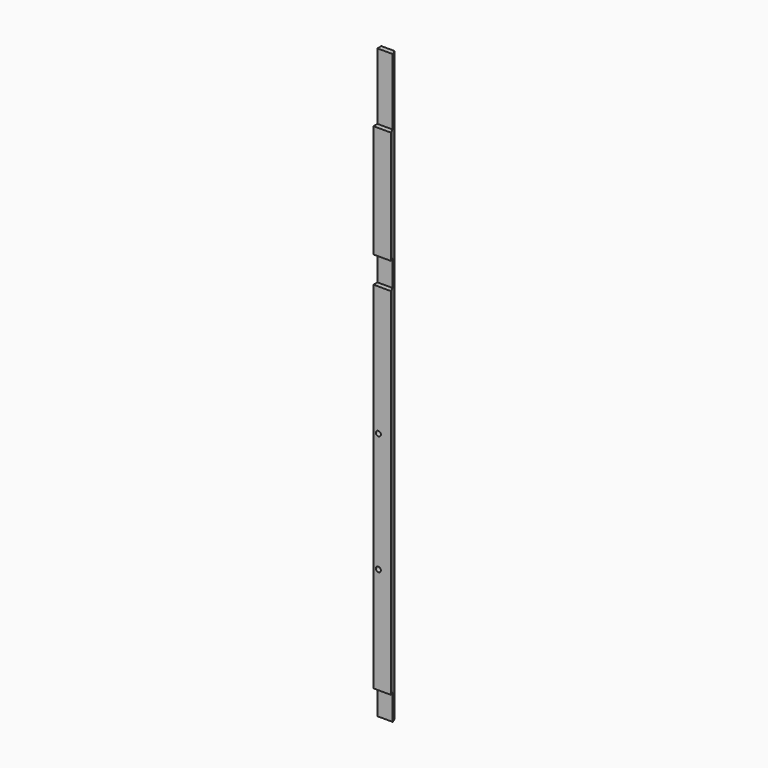
from build123d import *

# Parameters (mm, degrees)
F1_DEPTH = 1123.95
F2_W     = 122.435573
F2_H     = 50.8
F2_W_2   = 93.867282
F2_W_3   = 343.160421
F2_H_2   = 127
F3_DEPTH = 25.4
F4_R     = 0.79375
F5_DEPTH = 25.4
F6_R     = 4.7625
F7_DEPTH = 25.4


with BuildPart() as f1:
    # F0 (on Top) → F1 (new body)
    with BuildSketch(Plane.XY):
        Polygon((7.890768, -9.525), (0, 9.525), (-25.4, 9.525), (-25.4, -9.525), align=None)
    extrude(amount=F1_DEPTH)

    # F2 (on Front) → F3 (cut)
    with BuildSketch(Plane.XZ):
        with Locations((22.446524, 25.4)):
            Rectangle(F2_W, F2_H)
        with Locations((2.720783, 755.65)):
            Rectangle(F2_W_2, F2_H)
        with Locations((-38.781822, 1060.45)):
            Rectangle(F2_W_3, F2_H_2)
    extrude(amount=F3_DEPTH, mode=Mode.SUBTRACT)

    # F4 (on Front) → F5 (cut)
    with BuildSketch(Plane.XZ):
        with Locations((12.7, 101.6)):
            Circle(F4_R)
        with Locations((12.7, 155.575)):
            Circle(F4_R)
        with Locations((12.7, 625.475)):
            Circle(F4_R)
        with Locations((12.7, 679.45)):
            Circle(F4_R)
        with Locations((-12.7, 625.475)):
            Circle(F4_R)
        with Locations((-12.7, 679.45)):
            Circle(F4_R)
        with Locations((-12.7, 101.6)):
            Circle(F4_R)
        with Locations((-12.7, 155.575)):
            Circle(F4_R)
    extrude(amount=-F5_DEPTH, mode=Mode.SUBTRACT)

    # F6 (on Front) → F7 (cut)
    with BuildSketch(Plane.XZ):
        with Locations((-15.875, 254)):
            Circle(F6_R)
        with Locations((-15.875, 482.6)):
            Circle(F6_R)
    extrude(amount=F7_DEPTH, mode=Mode.SUBTRACT)


solid = f1.part
